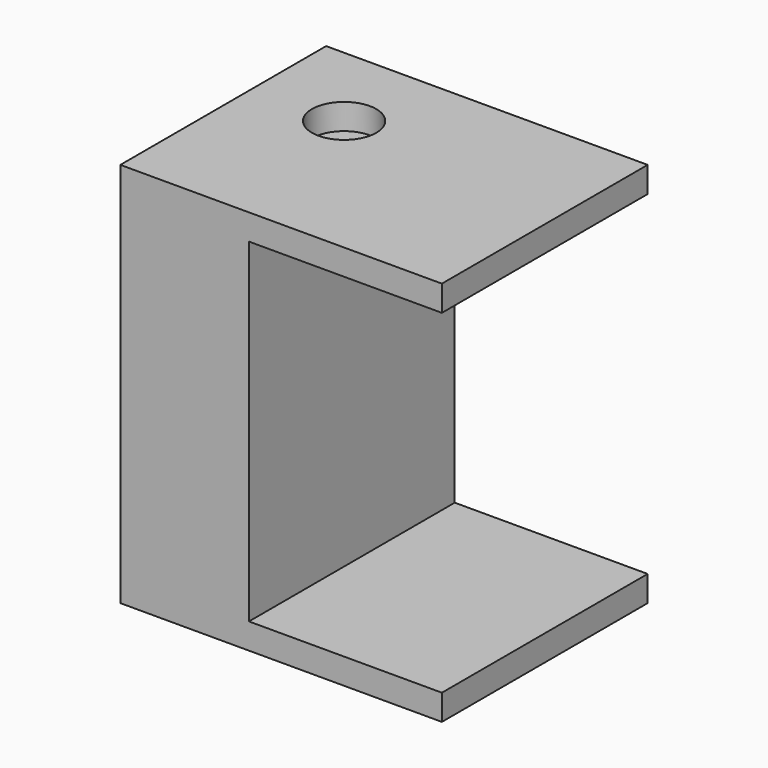
from build123d import *

# Parameters (mm, degrees)
F0_W     = 10
F0_H     = 20
F1_DEPTH = 30
F2_W     = 20
F2_H     = 2
F3_DEPTH = 15
F4_R     = 2.5
F5_DEPTH = 2
F6_R     = 2.5
F7_DEPTH = 2


with BuildPart() as f1:
    # F0 (on Top) → F1 (new body)
    with BuildSketch(Plane.XY):
        with Locations((-10.417764, -4.628471)):
            Rectangle(F0_W, F0_H)
    extrude(amount=F1_DEPTH)

    # F2 (on face) → F3 (join)
    with BuildSketch(Plane.YZ.offset(-5.417764)):
        with Locations((-4.628471, 29)):
            Rectangle(F2_W, F2_H)
        with Locations((-4.628471, 1)):
            Rectangle(F2_W, F2_H)
    extrude(amount=F3_DEPTH)

    # F4 (on Top) → F5 (cut)
    with BuildSketch(Plane.XY):
        with Locations((-8.417764, -1.628471)):
            Circle(F4_R)
    extrude(amount=F5_DEPTH, mode=Mode.SUBTRACT)

    # F6 (on face) → F7 (cut)
    with BuildSketch(Plane.XY.offset(30)):
        with Locations((-8.417764, -1.628471)):
            Circle(F6_R)
    extrude(amount=-F7_DEPTH, mode=Mode.SUBTRACT)


solid = f1.part
